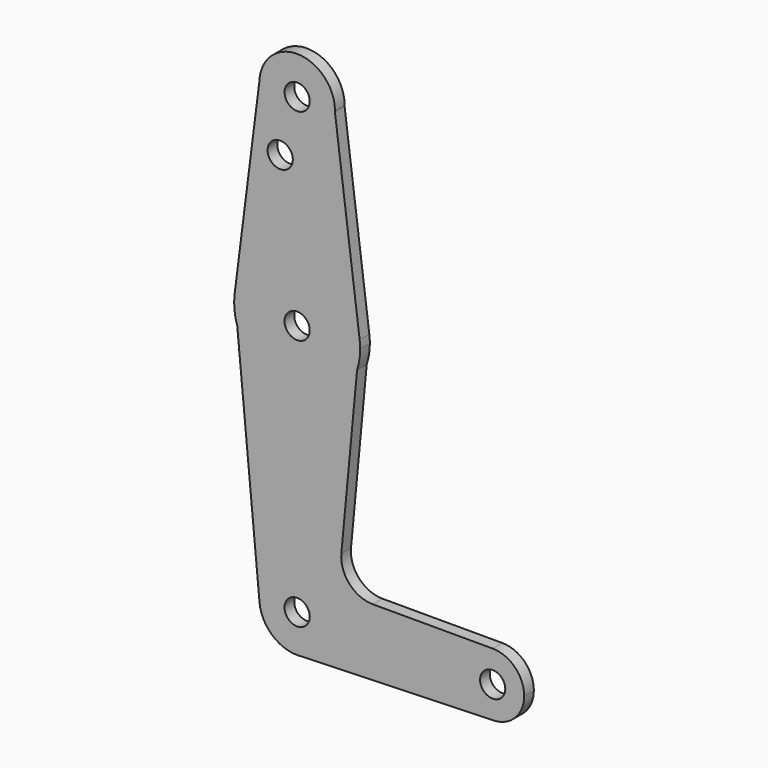
from build123d import *

# Parameters (mm, degrees)
F0_R     = 3.175
F1_DEPTH = 3.048


with BuildPart() as f1:
    # F0 (on Front) → F1 (new body)
    with BuildSketch(Plane.XZ):
        with BuildLine():
            ThreePointArc((-23.2488528316, 63.9433400749), (-23.2457905964, 64.0827574545), (-23.2447697784, 64.222204724))
            ThreePointArc((-23.2447697784, 64.222204724), (-32.6010796562, 73.7457108348), (-42.2887946902, 64.5595320539))
            ThreePointArc((-42.2887946902, 64.5595320539), (-33.0778672203, 54.7021889169), (-23.2488528316, 63.9433400749))
        make_face()
        with Locations((-32.7697697784, 64.222204724)):
            Circle(F0_R, mode=Mode.SUBTRACT)
        with BuildLine():
            ThreePointArc((-23.2488528316, 63.9433400749), (-33.0778672203, 54.7021889169), (-42.2887946902, 64.5595320539))
            Line((-42.2887946902, 64.5595320539), (-48.5187123814, 15.4188098138))
            ThreePointArc((-48.5187123814, 15.4188098138), (-32.7820421912, 29.2971999803), (-17.023933011, 15.4431573445))
            Line((-17.023933011, 15.4431573445), (-23.2488528316, 63.9433400749))
        make_face()
        with Locations((-37.0385125279, 49.947404724)):
            Circle(F0_R, mode=Mode.SUBTRACT)
        with BuildLine():
            Line((-47.8670611639, 8.5143113042), (-48.5187123814, 15.4188098138))
            ThreePointArc((-48.5187123814, 15.4188098138), (-48.5745337038, 11.9305404647), (-47.8670611639, 8.5143113042))
        make_face()
        with BuildLine():
            ThreePointArc((-17.023933011, 15.4431573445), (-32.7820421912, 29.2971999803), (-48.5187123814, 15.4188098138))
            Line((-48.5187123814, 15.4188098138), (-47.8670611639, 8.5143113042))
            ThreePointArc((-47.8670611639, 8.5143113042), (-32.7807619476, -2.4527914704), (-17.6792895161, 8.4934086789))
            Line((-17.6792895161, 8.4934086789), (-17.023933011, 15.4431573445))
        make_face()
        with Locations((-32.7697697784, 13.422204724)):
            Circle(F0_R, mode=Mode.SUBTRACT)
        with BuildLine():
            ThreePointArc((-16.8947697784, 13.422204724), (-16.9270934943, 14.4347427029), (-17.023933011, 15.4431573445))
            Line((-17.023933011, 15.4431573445), (-17.6792895161, 8.4934086789))
            ThreePointArc((-17.6792895161, 8.4934086789), (-17.0921264739, 10.926783834), (-16.8947697784, 13.422204724))
        make_face()
        with BuildLine():
            ThreePointArc((-17.6792895161, 8.4934086789), (-32.7807619476, -2.4527914704), (-47.8670611639, 8.5143113042))
            Line((-47.8670611639, 8.5143113042), (-42.2526281336, -50.9727938316))
            ThreePointArc((-42.2526281336, -50.9727938316), (-33.2177648488, -40.5633365202), (-23.2447697784, -50.077795276))
            ThreePointArc((-23.2447697784, -50.077795276), (-25.8216856464, -56.5931426878), (-32.1581035098, -59.5831353213))
            Line((-32.1581035098, -59.5831353213), (16.7484584113, -58.0111983949))
            ThreePointArc((16.7484584113, -58.0111983949), (8.5569901399, -50.2053080097), (16.4934658536, -42.140295276))
            Line((16.4934658536, -42.140295276), (-13.7188447097, -42.140295276))
            ThreePointArc((-13.7188447097, -42.140295276), (-19.5984538444, -39.5413452668), (-21.6339307019, -33.4437081269))
            Line((-21.6339307019, -33.4437081269), (-17.6792895161, 8.4934086789))
        make_face()
        with BuildLine():
            ThreePointArc((-23.2447697784, -50.077795276), (-33.2177648488, -40.5633365202), (-42.2526281336, -50.9727938316))
            ThreePointArc((-42.2526281336, -50.9727938316), (-39.1807277317, -57.1223139339), (-32.7697697784, -59.602795276))
            Line((-32.7697697784, -59.602795276), (-32.1581035098, -59.5831353213))
            ThreePointArc((-32.1581035098, -59.5831353213), (-25.8216856464, -56.5931426878), (-23.2447697784, -50.077795276))
        make_face()
        with Locations((-32.7697697784, -50.077795276)):
            Circle(F0_R, mode=Mode.SUBTRACT)
        with BuildLine():
            Line((-32.1581035098, -59.5831353213), (-32.7697697784, -59.602795276))
            ThreePointArc((-32.7697697784, -59.602795276), (-32.4637787091, -59.5978790186), (-32.1581035098, -59.5831353213))
        make_face()
        with BuildLine():
            ThreePointArc((24.4309658536, -50.077795276), (22.1061259292, -44.4651352004), (16.4934658536, -42.140295276))
            ThreePointArc((16.4934658536, -42.140295276), (8.5569901399, -50.2053080097), (16.7484584113, -58.0111983949))
            ThreePointArc((16.7484584113, -58.0111983949), (22.195566768, -55.5995659532), (24.4309658536, -50.077795276))
        make_face()
        with Locations((16.4934658536, -50.077795276)):
            Circle(F0_R, mode=Mode.SUBTRACT)
    extrude(amount=F1_DEPTH)


solid = f1.part
